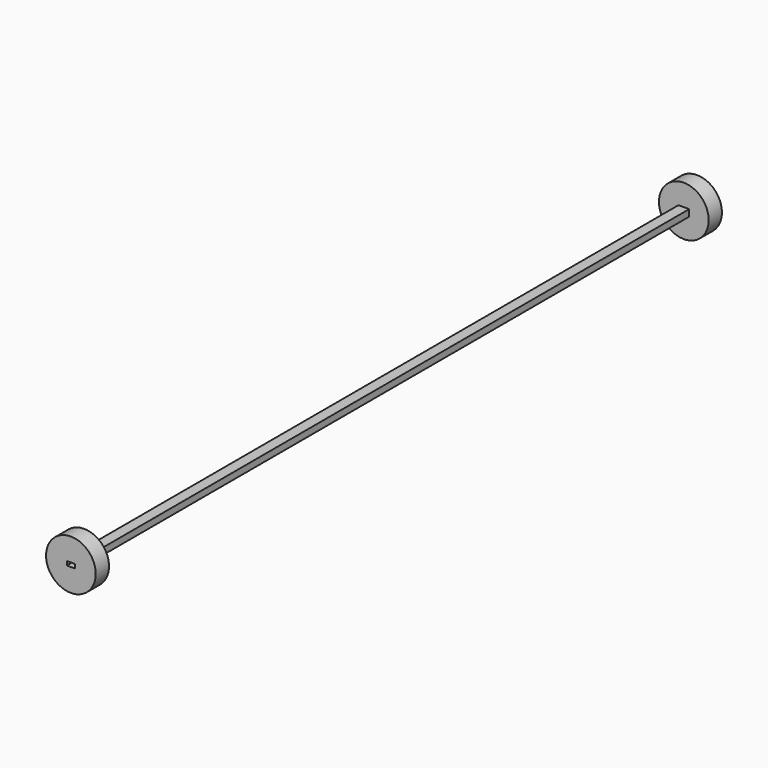
from build123d import *

# Parameters (mm, degrees)
F0_W     = 4.1
F0_H     = 2.55
F0_W_2   = 3.1
F0_H_2   = 1.55
F3_DEPTH = 300
F4_R     = 9.525
F4_W     = 4.1
F4_H     = 2.55
F5_DEPTH = 6.35
F6_R     = 9.525
F6_W     = 4.1
F6_H     = 2.55
F7_DEPTH = 6.35


with BuildPart() as f3:
    # F0 (on Front) → F3 (new body)
    with BuildSketch(Plane.XZ):
        Rectangle(F0_W, F0_H)
        Rectangle(F0_W_2, F0_H_2, mode=Mode.SUBTRACT)
    extrude(amount=F3_DEPTH)

    # F4 (on face) → F5 (join)
    with BuildSketch(Plane.XZ.offset(300)):
        Circle(F4_R)
        Rectangle(F4_W, F4_H, mode=Mode.SUBTRACT)
    extrude(amount=-F5_DEPTH)

    # F6 (on face) → F7 (join)
    with BuildSketch(Plane.XZ):
        Circle(F6_R)
        Rectangle(F6_W, F6_H, mode=Mode.SUBTRACT)
    extrude(amount=F7_DEPTH)


solid = f3.part
